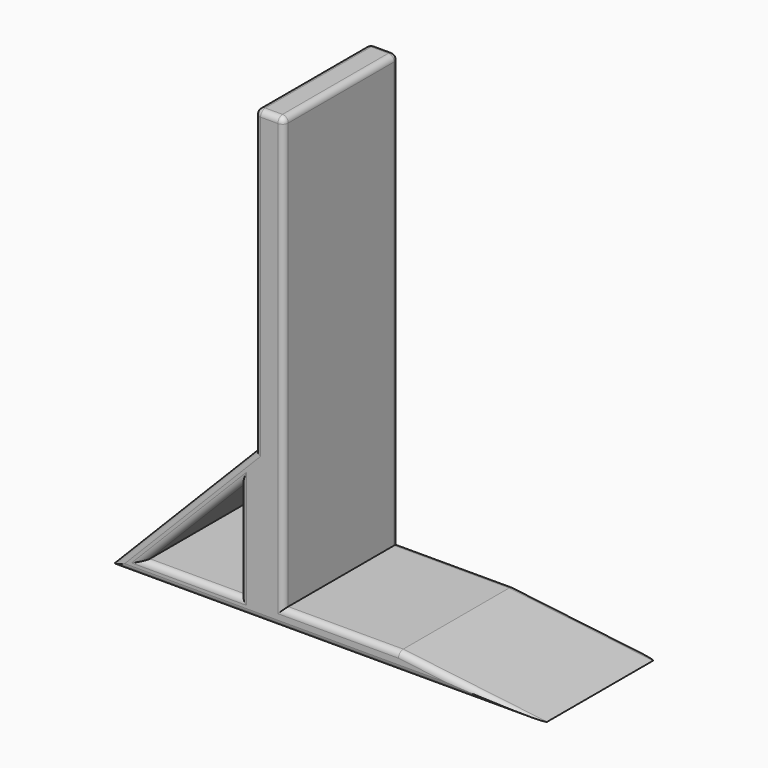
from build123d import *

# Parameters (mm, degrees)
F1_DEPTH = 50
F2_R     = 2


with BuildPart() as f1:
    # F0 (on Front) → F1 (new body)
    with BuildSketch(Plane.XZ):
        Polygon((0, 45), (0, 0), (10, 0), (10, 150), (0, 150), align=None)
        Polygon((0, -6), (0, 0), (0, 45), (-50, -6), align=None)
        Polygon((-5, 32.757872), (-5, -1), (-38.095953, -1), align=None, mode=Mode.SUBTRACT)
        Polygon((10, 0), (0, 0), (0, -6), (100, -6), (50, 0), align=None)
    extrude(amount=F1_DEPTH)

    # F2
    f2_edges = [f1.edges().sort_by_distance(p)[0] for p in [
        (0, -50, 97.5),
        (-25, -50, 19.5),
        (25, -50, -6),
        (75, -50, -3),
        (30, -50, 0),
        (10, -50, 75),
        (5, -50, 150),
        (-21.547976, -50, -1),
        (-21.547976, -50, 15.878936),
        (-5, -50, 15.878936),
        (10, 0, 75),
        (5, 0, 150),
        (0, 0, 97.5),
        (-25, 0, 19.5),
        (25, 0, -6),
        (75, 0, -3),
        (30, 0, 0),
        (-21.547976, 0, -1),
        (-21.547976, 0, 15.878936),
        (-5, 0, 15.878936),
        (10, -25, 150),
        (0, -25, 150),
    ]]
    fillet(f2_edges, radius=F2_R)


solid = f1.part
